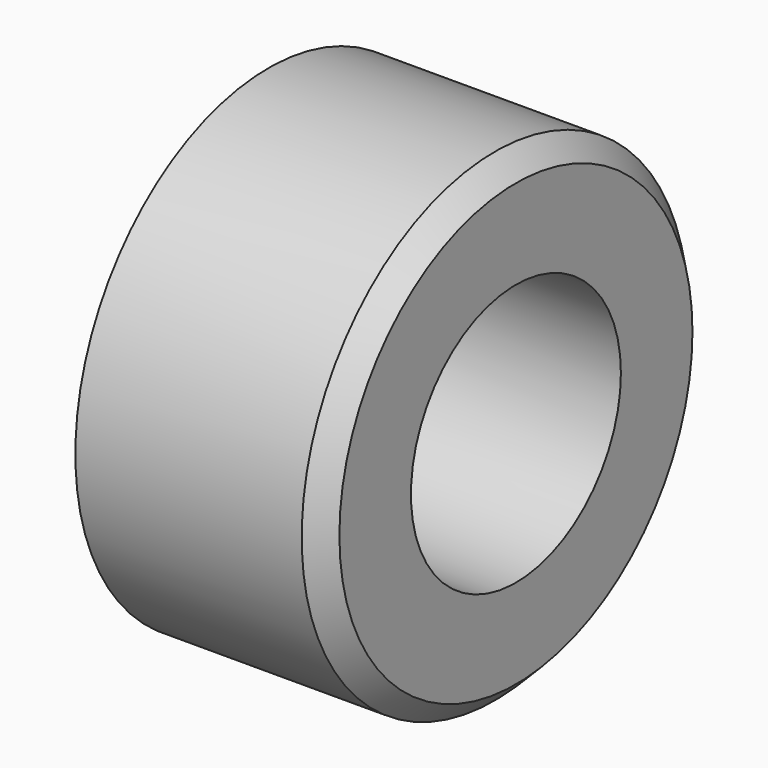
from build123d import *

# Parameters (mm, degrees)
F0_R     = 58.620281
F0_R_2   = 31.835179
F1_DEPTH = 60
F2_SIZE  = 5.08


with BuildPart() as f1:
    # F0 (on Right) → F1 (new body)
    with BuildSketch(Plane.YZ):
        Circle(F0_R)
        Circle(F0_R_2, mode=Mode.SUBTRACT)
    extrude(amount=F1_DEPTH)

    # F2
    f2_edges = [f1.edges().sort_by_distance(p)[0] for p in [
        (60, -58.620281, 0),
    ]]
    chamfer(f2_edges, length=F2_SIZE)


solid = f1.part
